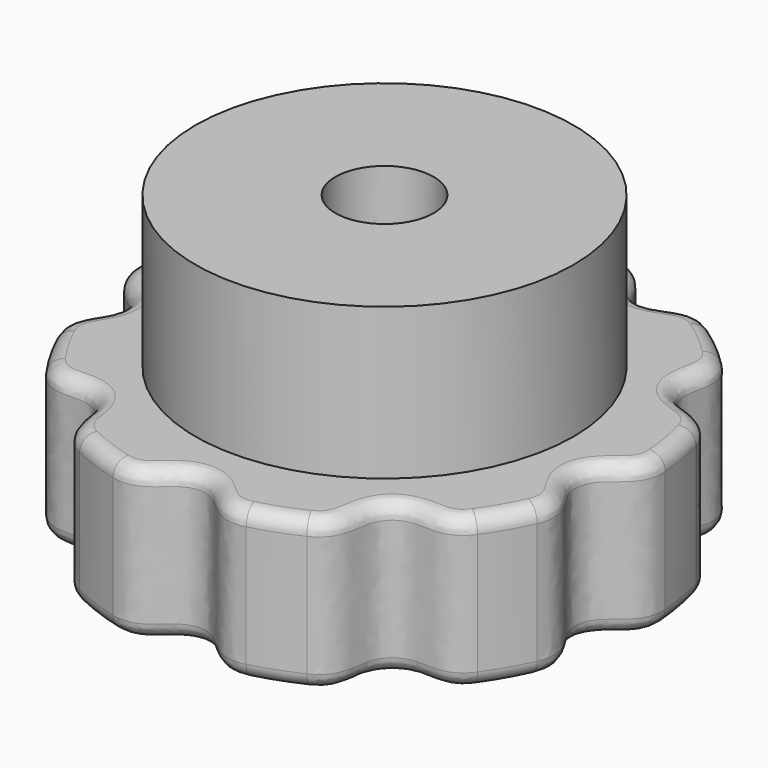
from build123d import *

# Parameters (mm, degrees)
SKETCH_R           = 17.5
PAD_DEPTH          = 10
SKETCH005_R        = 12.5
PAD001_DEPTH       = 10
SKETCH003_R        = 3.25
POCKET001_DEPTH    = 20.001
POCKET_DEPTH       = 6
POCKET002_DEPTH    = 126.771783
POLARPATTERN_COUNT = 9
FILLET_R           = 1
FILLET001_R        = 1
SKETCH008_R        = 12.5
SKETCH008_R_2      = 3.25
PAD002_DEPTH       = 1
SKETCH009_R        = 12.5
SKETCH009_R_2      = 10
PAD003_DEPTH       = 2


with BuildPart() as body:
    # Sketch → Pad (new body)
    with BuildSketch(Plane.XY):
        Circle(SKETCH_R)
    extrude(amount=PAD_DEPTH)

    # Sketch005 (on Face3 of Pad) → Pad001 (join)
    with BuildSketch(Plane.XY.offset(10)):
        Circle(SKETCH005_R)
    extrude(amount=PAD001_DEPTH)

    # Sketch003 → Pocket001 (cut, through all)
    with BuildSketch(Plane.XY):
        Circle(SKETCH003_R)
    extrude(amount=POCKET001_DEPTH, mode=Mode.SUBTRACT)

    # Sketch006 (on Face2 of Pocket001) → Pocket (cut)
    with BuildSketch(Plane(origin=(0, 0, 0), x_dir=(1, 0, 0), z_dir=(0, 0, -1))):
        Polygon((6.581793, 0), (3.290897, 5.7), (-3.290897, 5.7), (-6.581793, 0), (-3.290897, -5.7), (3.290897, -5.7), align=None)
    extrude(amount=-POCKET_DEPTH, mode=Mode.SUBTRACT)

    # Sketch007 (on Face2 of Pocket) → Pocket002 (cut, through all)
    with BuildSketch(Plane(origin=(0, 0, 0), x_dir=(1, 0, 0), z_dir=(0, 0, -1))):
        with BuildLine():
            add(Edge.make_bspline(
                [(-4.529333, 16.903702), (-2.758429, 17.403952), (-1.298573, 15.091123), (1.298573, 15.091123), (2.758429, 17.403952), (4.529333, 16.903702)],
                knots=[0, 0, 0, 0, 0.333333, 0.666667, 1, 1, 1, 1], degree=3))
            ThreePointArc((4.529333, 16.903702), (0, 18.552534), (-4.529333, 16.903702))
        make_face()
    pocket002 = extrude(amount=-POCKET002_DEPTH, mode=Mode.SUBTRACT)

    # PolarPattern: Pocket002 ×9 about axis
    polarpattern_axis = Axis((0, 0, 0), (0, 0, -1))
    for i in range(1, POLARPATTERN_COUNT):
        add(pocket002.rotate(polarpattern_axis, i * 360 / POLARPATTERN_COUNT), mode=Mode.SUBTRACT)

    # Fillet
    fillet_edges = [body.edges().sort_by_distance(p)[0] for p in [
        (5.985353, -16.444621, 0),
        (0, -15.235675, 0),
        (9.793303, -11.671204, 0),
        (15.004211, -2.645647, 0),
        (15.155445, -8.75, 0),
        (17.234136, 3.038843, 0),
        (13.194481, 7.617837, 0),
        (11.248783, 13.405778, 0),
        (5.210908, 14.316851, 0),
        (0, 17.5, 0),
        (-5.210908, 14.316851, 0),
        (-11.248783, 13.405778, 0),
        (-13.194481, 7.617837, 0),
        (-17.234136, 3.038843, 0),
        (-15.004211, -2.645647, 0),
        (-15.155445, -8.75, 0),
        (-9.793303, -11.671204, 0),
        (-5.985353, -16.444621, 0),
    ]]
    fillet(fillet_edges, radius=FILLET_R)

    # Fillet001
    fillet001_edges = [body.edges().sort_by_distance(p)[0] for p in [
        (0, 17.5, 10),
        (-5.210908, 14.316851, 10),
        (5.210908, 14.316851, 10),
        (11.248783, 13.405778, 10),
        (13.194481, 7.617837, 10),
        (17.234136, 3.038843, 10),
        (15.004211, -2.645647, 10),
        (15.155445, -8.75, 10),
        (9.793303, -11.671204, 10),
        (5.985353, -16.444621, 10),
        (0, -15.235675, 10),
        (-5.985353, -16.444621, 10),
        (-9.793303, -11.671204, 10),
        (-15.155445, -8.75, 10),
        (-15.004211, -2.645647, 10),
        (-17.234136, 3.038843, 10),
        (-13.194481, 7.617837, 10),
        (-11.248783, 13.405778, 10),
    ]]
    fillet(fillet001_edges, radius=FILLET001_R)


with BuildPart() as body001:
    # Sketch008 → Pad002 (new body)
    with BuildSketch(Plane.XY):
        Circle(SKETCH008_R)
        Circle(SKETCH008_R_2, mode=Mode.SUBTRACT)
    extrude(amount=PAD002_DEPTH)

    # Sketch009 → Pad003 (join)
    with BuildSketch(Plane.XY):
        Circle(SKETCH009_R)
        Circle(SKETCH009_R_2, mode=Mode.SUBTRACT)
    extrude(amount=PAD003_DEPTH)


solid = Compound([body.part, body001.part])
